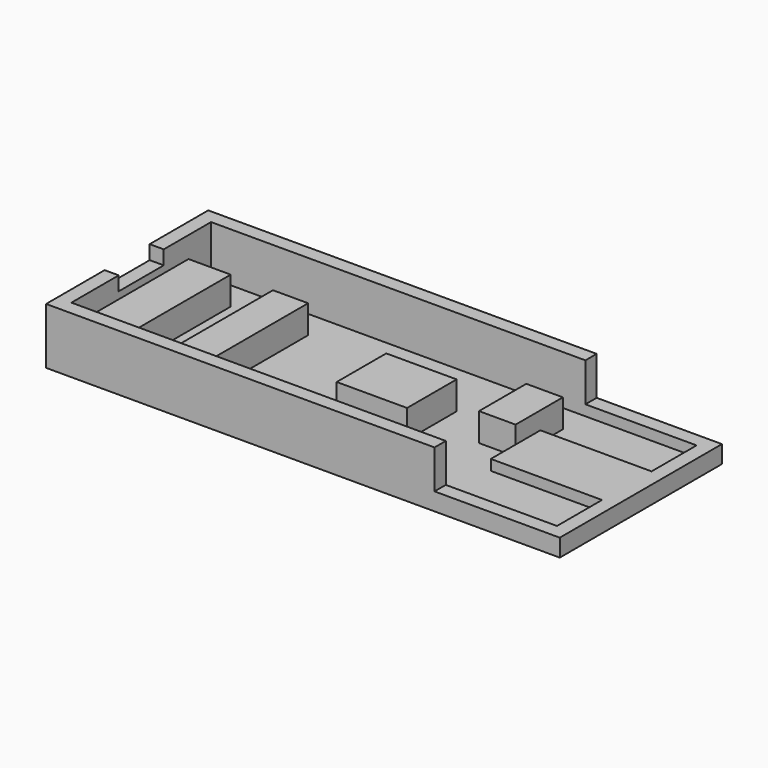
from build123d import *

# Parameters (mm, degrees)
F0_W     = 5
F0_H     = 16.8
F0_W_2   = 10
F0_H_2   = 8.8
F0_W_3   = 15.8
F0_H_3   = 8
F1_DEPTH = 1
F0_H_4   = 2
F2_DEPTH = 2.5
F3_DEPTH = 5
F4_DEPTH = 8
F0_W_4   = 2
F5_DEPTH = 6


with BuildPart() as f1:
    # F0 (on Top) → F1 (new body)
    with BuildSketch(Plane.XY):
        Polygon((69, 24.8), (53.2, 24.8), (53.2, 20.8), (53.2, 16.8), (69, 16.8), align=None)
        Polygon((0, 24.8), (0, 20.8), (6, 20.8), (6, 4), (0, 4), (0, 0), (53.2, 0), (53.2, 8), (53.2, 12.4), (48, 12.4), (48, 20.8), (53.2, 20.8), (53.2, 24.8), align=None)
        with Locations((14.5, 12.4)):
            Rectangle(F0_W, F0_H, mode=Mode.SUBTRACT)
        with Locations((36.3, 12.4)):
            Rectangle(F0_W_2, F0_H_2, mode=Mode.SUBTRACT)
        with Locations((61.1, 4)):
            Rectangle(F0_W_3, F0_H_3)
    extrude(amount=F1_DEPTH)

    # F0 (on Top) → F2 (join)
    with BuildSketch(Plane.XY):
        with Locations((61.1, 25.8)):
            Rectangle(F0_W_3, F0_H_4)
        Polygon((69, 8), (69, 16.8), (53.2, 16.8), (53.2, 12.4), (53.2, 8), align=None)
        with Locations((61.1, -1)):
            Rectangle(F0_W_3, F0_H_4)
        Polygon((69, 26.8), (69, 24.8), (69, 16.8), (69, 8), (69, 0), (69, -2), (71, -2), (71, 26.8), align=None)
    extrude(amount=F2_DEPTH)

    # F0 (on Top) → F3 (join)
    with BuildSketch(Plane.XY):
        Polygon((6, 20.8), (0, 20.8), (0, 16.4), (0, 8.4), (0, 4), (6, 4), align=None)
        with Locations((14.5, 12.4)):
            Rectangle(F0_W, F0_H)
        with Locations((36.3, 12.4)):
            Rectangle(F0_W_2, F0_H_2)
        Polygon((53.2, 16.8), (53.2, 20.8), (48, 20.8), (48, 12.4), (53.2, 12.4), align=None)
    extrude(amount=F3_DEPTH)

    # F0 (on Top) → F4 (join)
    with BuildSketch(Plane.XY):
        Polygon((0, 16.4), (0, 20.8), (0, 24.8), (53.2, 24.8), (53.2, 26.8), (-2, 26.8), (-2, 16.4), align=None)
        Polygon((0, 4), (0, 8.4), (-2, 8.4), (-2, -2), (53.2, -2), (53.2, 0), (0, 0), align=None)
    extrude(amount=F4_DEPTH)

    # F0 (on Top) → F5 (join)
    with BuildSketch(Plane.XY):
        with Locations((-1, 12.4)):
            Rectangle(F0_W_4, F0_H_3)
    extrude(amount=F5_DEPTH)


solid = f1.part
